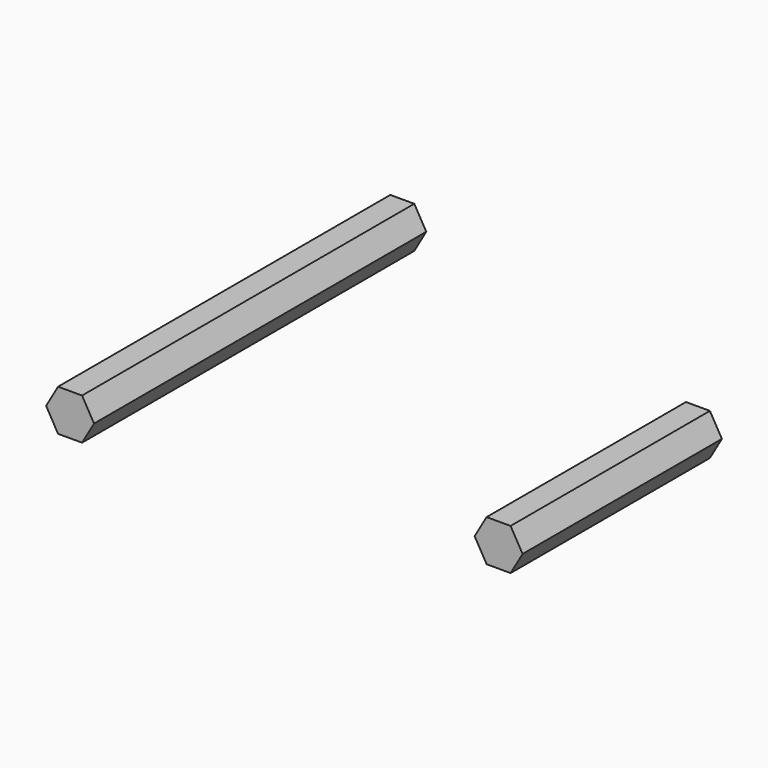
from build123d import *

# Parameters (mm, degrees)
F1_DEPTH = 38.1
F3_DEPTH = 127


with BuildPart() as f1:
    # F0 (on Front) → F1 (new body, symmetric)
    with BuildSketch(Plane.XZ):
        Polygon((7.332348, 0), (3.666174, 6.35), (-3.666174, 6.35), (-7.332348, 0), (-3.666174, -6.35), (3.666174, -6.35), align=None)
    extrude(amount=F1_DEPTH, both=True)


with BuildPart() as f3:
    # F2 (on Front) → F3 (new body)
    with BuildSketch(Plane.XZ):
        Polygon((-52.598492, 51.754034), (-56.264667, 58.104034), (-63.597015, 58.104034), (-67.263189, 51.754034), (-63.597015, 45.404034), (-56.264667, 45.404034), align=None)
    extrude(amount=F3_DEPTH)


solid = Compound([f1.part, f3.part])
